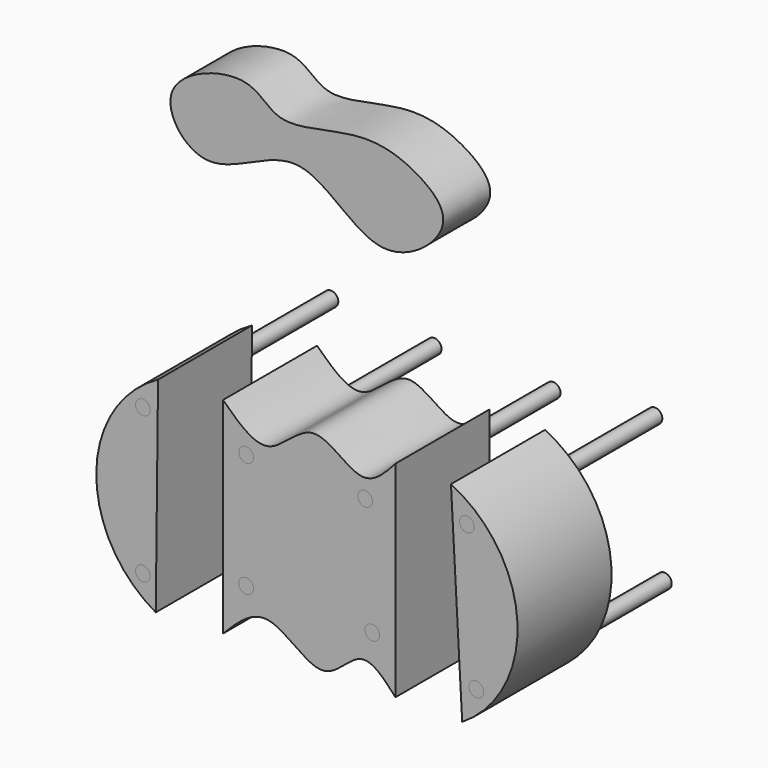
from build123d import *

# Parameters (mm, degrees)
F0_R     = 3.175
F1_DEPTH = 50.8
F2_DEPTH = 50.8
F4_DEPTH = 25.4


with BuildPart() as f1:
    # F0 (on Front) → F1 (new body)
    with BuildSketch(Plane.XZ):
        with BuildLine():
            Line((-56.197345168, -49.663191052), (-55.2168922425, 39.2314022148))
            ThreePointArc((-55.2168922425, 39.2314022148), (-81.9120806227, -4.9268697364), (-56.197345168, -49.663191052))
        make_face()
        with Locations((-61.7534257472, -36.6449132562)):
            Circle(F0_R, mode=Mode.SUBTRACT)
        with Locations((-61.7534257472, 26.5385452658)):
            Circle(F0_R, mode=Mode.SUBTRACT)
    extrude(amount=F1_DEPTH)


with BuildPart() as f1b:
    # F0 (on Front) → F1, piece 2 (new body)
    with BuildSketch(Plane.XZ):
        with BuildLine():
            add(Edge.make_bspline(
                [(-27.1294023842, 40.6382197082), (-20.4965170798, 34.2550649547), (-7.2670703699, 21.5237117386), (11.4325865282, 49.7390943051), (32.8296281569, 24.3472193869), (42.7534768961, 35.4391293349), (47.405064106, 40.6382197082)],
                knots=[0, 0, 0, 0, 0.2580076269, 0.5146023177, 0.7724804448, 1, 1, 1, 1], degree=3))
            Line((-27.1294023842, 40.6382197082), (-27.1294023842, -48.2617802918))
            add(Edge.make_bspline(
                [(-27.1294023842, -48.2617802918), (-20.839741043, -41.8670291142), (-7.8229636544, -28.6327629082), (16.1347416615, -57.5168965189), (32.3837059278, -31.806733715), (42.4642344853, -42.8493814546), (47.405064106, -48.2617802918)],
                knots=[0, 0, 0, 0, 0.2583790687, 0.5347287614, 0.7719538312, 1, 1, 1, 1], degree=3))
            Line((47.405064106, -48.2617802918), (47.405064106, 40.6382197082))
        make_face()
        with Locations((-17.1301998198, -26.9121527672)):
            Circle(F0_R, mode=Mode.SUBTRACT)
        with Locations((37.3592562973, -26.9121527672)):
            Circle(F0_R, mode=Mode.SUBTRACT)
        with Locations((-17.1301998198, 22.9928586632)):
            Circle(F0_R, mode=Mode.SUBTRACT)
        with Locations((34.2931970954, 22.9928586632)):
            Circle(F0_R, mode=Mode.SUBTRACT)
    extrude(amount=F1_DEPTH)


with BuildPart() as f1c:
    # F0 (on Front) → F1, piece 3 (new body)
    with BuildSketch(Plane.XZ):
        with BuildLine():
            Line((71.3931694627, 40.6382197082), (76.247908175, -48.2617802918))
            ThreePointArc((76.247908175, -48.2617802918), (100.1080109426, -2.3762481369), (71.3931694627, 40.6382197082))
        make_face()
        with Locations((82.3634043336, -33.895034343)):
            Circle(F0_R, mode=Mode.SUBTRACT)
        with Locations((78.2882869244, 27.5752898306)):
            Circle(F0_R, mode=Mode.SUBTRACT)
    extrude(amount=F1_DEPTH)


with BuildPart() as f2:
    # F0 (on Front) → F2 (new body, symmetric)
    with BuildSketch(Plane.XZ):
        with Locations((-61.7534257472, 26.5385452658)):
            Circle(F0_R)
    extrude(amount=F2_DEPTH, both=True)


with BuildPart() as f2b:
    # F0 (on Front) → F2, piece 2 (new body, symmetric)
    with BuildSketch(Plane.XZ):
        with Locations((-61.7534257472, -36.6449132562)):
            Circle(F0_R)
    extrude(amount=F2_DEPTH, both=True)


with BuildPart() as f2c:
    # F0 (on Front) → F2, piece 3 (new body, symmetric)
    with BuildSketch(Plane.XZ):
        with Locations((37.3592562973, -26.9121527672)):
            Circle(F0_R)
    extrude(amount=F2_DEPTH, both=True)


with BuildPart() as f2d:
    # F0 (on Front) → F2, piece 4 (new body, symmetric)
    with BuildSketch(Plane.XZ):
        with Locations((34.2931970954, 22.9928586632)):
            Circle(F0_R)
    extrude(amount=F2_DEPTH, both=True)


with BuildPart() as f2e:
    # F0 (on Front) → F2, piece 5 (new body, symmetric)
    with BuildSketch(Plane.XZ):
        with Locations((78.2882869244, 27.5752898306)):
            Circle(F0_R)
    extrude(amount=F2_DEPTH, both=True)


with BuildPart() as f2f:
    # F0 (on Front) → F2, piece 6 (new body, symmetric)
    with BuildSketch(Plane.XZ):
        with Locations((-17.1301998198, -26.9121527672)):
            Circle(F0_R)
    extrude(amount=F2_DEPTH, both=True)


with BuildPart() as f2g:
    # F0 (on Front) → F2, piece 7 (new body, symmetric)
    with BuildSketch(Plane.XZ):
        with Locations((-17.1301998198, 22.9928586632)):
            Circle(F0_R)
    extrude(amount=F2_DEPTH, both=True)


with BuildPart() as f2h:
    # F0 (on Front) → F2, piece 8 (new body, symmetric)
    with BuildSketch(Plane.XZ):
        with Locations((82.3634043336, -33.895034343)):
            Circle(F0_R)
    extrude(amount=F2_DEPTH, both=True)


with BuildPart() as f4:
    # F3 (on Front) → F4 (new body)
    with BuildSketch(Plane.XZ):
        with BuildLine():
            add(Edge.make_bspline(
                [(-55.0137981772, 112.8411591053), (-42.9069490626, 111.100985742), (-13.4101575133, 138.7877927686), (18.2630721062, 90.9371204676), (55.8731337357, 121.296854622), (36.6831630329, 138.6708965276), (12.1383040564, 146.8204088868), (-24.5854065093, 133.1279810055), (-35.1550081711, 154.1773625791), (-81.6949461013, 137.8433872189), (-64.5200935952, 114.2075428698), (-55.0137981772, 112.8411591053)],
                knots=[0, 0, 0, 0, 0.1310748359, 0.2638177305, 0.3778517337, 0.4650171884, 0.5709931058, 0.690256212, 0.7772405415, 0.897080066, 1, 1, 1, 1], degree=3))
        make_face()
    extrude(amount=F4_DEPTH)


solid = Compound([f1.part, f1b.part, f1c.part, f2.part, f2b.part, f2c.part, f2d.part, f2e.part, f2f.part, f2g.part, f2h.part, f4.part])
